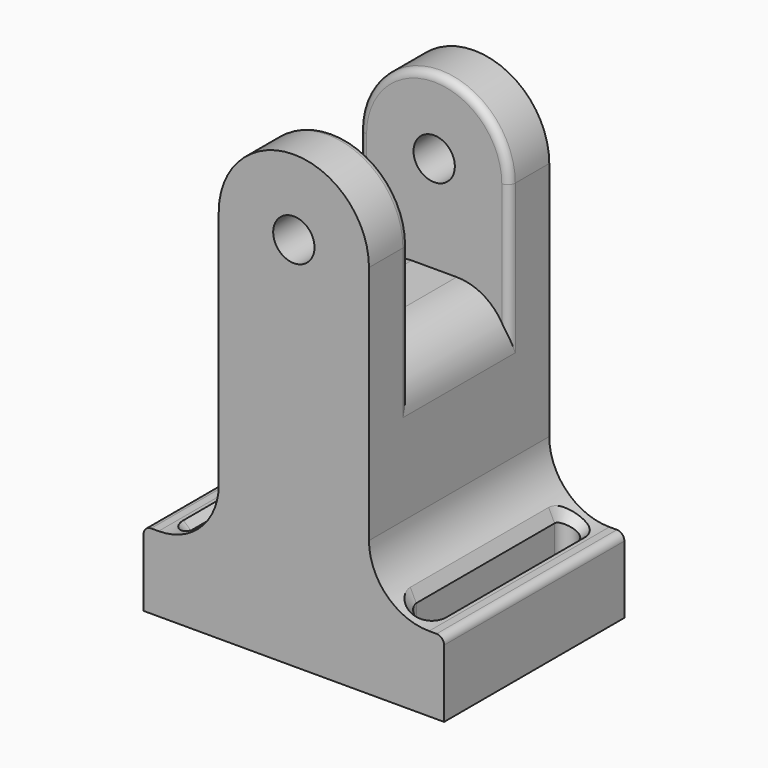
from build123d import *

# Parameters (mm, degrees)
PAD_DEPTH       = 30
SKETCH001_W     = 41.77589
SKETCH001_H     = 25.780136
POCKET_DEPTH    = 8.35
SKETCH002_R     = 2.75
POCKET001_DEPTH = 30.001
FILLET_R        = 7
FILLET001_R     = 8
FILLET002_R     = 1
POCKET002_DEPTH = 16.001
CHAMFER_SIZE    = 1
FILLET003_R     = 1


with BuildPart() as part:
    # Sketch → Pad (new body)
    with BuildSketch(Plane.XZ):
        with BuildLine():
            Line((-20, 0), (20, 0))
            Line((20, 10), (20, 0))
            Line((10, 10), (20, 10))
            Line((10, 50), (10, 10))
            ThreePointArc((10, 50), (0, 60), (-10, 50))
            Line((-10, 10), (-10, 50))
            Line((-20, 10), (-10, 10))
            Line((-20, 0), (-20, 10))
        make_face()
    extrude(amount=PAD_DEPTH)

    # Sketch001 (on DatumPlane) → Pocket (cut, symmetric)
    with BuildSketch(Plane(origin=(0, -15, 0), x_dir=(1, 0, 0), z_dir=(0, 1, 0))):
        with Locations((0, -50)):
            Rectangle(SKETCH001_W, SKETCH001_H)
    extrude(amount=POCKET_DEPTH, both=True, mode=Mode.SUBTRACT)

    # Sketch002 (on Face4 of Pocket) → Pocket001 (cut, through all)
    with BuildSketch(Plane(origin=(0, 0, 0), x_dir=(1, 0, 0), z_dir=(0, 1, 0))):
        with Locations((0, -50)):
            Circle(SKETCH002_R)
    extrude(amount=-POCKET001_DEPTH, mode=Mode.SUBTRACT)

    # Fillet
    fillet_edges = [part.edges().sort_by_distance(p)[0] for p in [
        (-10, -15, 37.109932),
        (10, -15, 37.109932),
    ]]
    fillet(fillet_edges, radius=FILLET_R)

    # Fillet001
    fillet001_edges = [part.edges().sort_by_distance(p)[0] for p in [
        (10, -15, 10),
        (-10, -15, 10),
    ]]
    fillet(fillet001_edges, radius=FILLET001_R)

    # Fillet002
    fillet002_edges = [part.edges().sort_by_distance(p)[0] for p in [
        (-20, -15, 10),
        (20, -15, 10),
    ]]
    fillet(fillet002_edges, radius=FILLET002_R)

    # Sketch003 (on DatumPlane) → Pocket002 (cut, through all)
    with BuildSketch(Plane(origin=(0, 0, 16), x_dir=(1, 0, 0), z_dir=(0, 0, -1))):
        with BuildLine():
            ThreePointArc((16.5, 26.507559), (15, 28.007559), (13.5, 26.507559))
            Line((13.5, 26.507559), (13.5, 3.492441))
            ThreePointArc((13.5, 3.492441), (15, 1.992441), (16.5, 3.492441))
            Line((16.5, 26.507559), (16.5, 3.492441))
        make_face()
        with BuildLine():
            ThreePointArc((-13.5, 26.507559), (-15, 28.007559), (-16.5, 26.507559))
            Line((-16.5, 26.507559), (-16.5, 3.49244))
            ThreePointArc((-16.5, 3.49244), (-15, 1.99244), (-13.5, 3.49244))
            Line((-13.5, 26.507559), (-13.5, 3.49244))
        make_face()
    extrude(amount=POCKET002_DEPTH, mode=Mode.SUBTRACT)

    # Chamfer
    chamfer_edges = [part.edges().sort_by_distance(p)[0] for p in [
        (-16.5, -15, 10.141883),
        (-13.5, -15, 11.385622),
        (-14.95623, -1.993079, 10.601658),
        (-14.95623, -28.00692, 10.601658),
        (14.95623, -1.99308, 10.601658),
        (13.5, -15, 11.385622),
        (16.5, -15, 10.141883),
        (14.95623, -28.00692, 10.601658),
    ]]
    chamfer(chamfer_edges, length=CHAMFER_SIZE)

    # Fillet003
    fillet003_edges = [part.edges().sort_by_distance(p)[0] for p in [
        (-10, -23.35, 43.554966),
        (10, -23.35, 43.554966),
        (-10, -6.65, 43.554966),
        (10, -6.65, 43.554966),
    ]]
    fillet(fillet003_edges, radius=FILLET003_R)


solid = part.part
